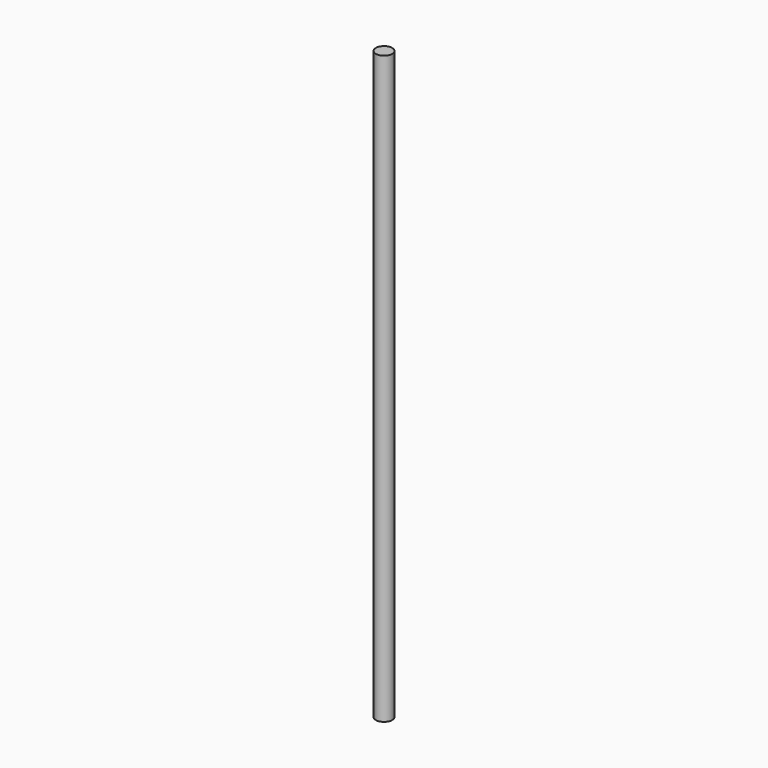
from build123d import *

# Parameters (mm, degrees)
SKETCH_R  = 2.5
PAD_DEPTH = 180


with BuildPart() as part:
    # Sketch → Pad (new body)
    with BuildSketch(Plane.XY):
        Circle(SKETCH_R)
    extrude(amount=PAD_DEPTH)


solid = part.part
